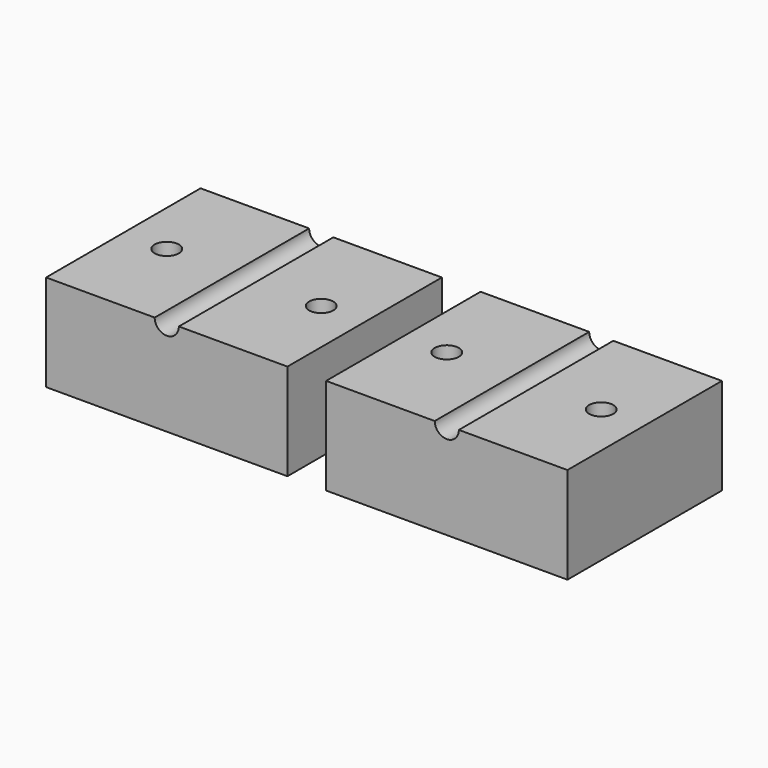
from build123d import *

# Parameters (mm, degrees)
F0_W     = 63.5
F0_H     = 50.8
F0_R     = 3.175
F1_DEPTH = 25.4
F2_R     = 3.175
F3_DEPTH = 50.801


with BuildPart() as f1:
    # F0 (on Top) → F1 (new body)
    with BuildSketch(Plane.XY):
        with Locations((-28.053731, 7.436336)):
            Rectangle(F0_W, F0_H)
        with Locations((-48.373731, 7.436336)):
            Circle(F0_R, mode=Mode.SUBTRACT)
        with Locations((-7.733731, 7.436336)):
            Circle(F0_R, mode=Mode.SUBTRACT)
        with Locations((45.621812, 7.436336)):
            Rectangle(F0_W, F0_H)
        with Locations((25.301812, 7.436336)):
            Circle(F0_R, mode=Mode.SUBTRACT)
        with Locations((65.941812, 7.436336)):
            Circle(F0_R, mode=Mode.SUBTRACT)
    extrude(amount=F1_DEPTH)

    # F2 (on face) → F3 (cut, through all)
    with BuildSketch(Plane.XZ.offset(17.963664)):
        with Locations((-28.053731, 25.4)):
            Circle(F2_R)
        with BuildLine():
            ThreePointArc((48.796812, 25.4), (45.621812, 28.575), (42.446812, 25.4))
            Line((42.446812, 25.4), (48.796812, 25.4))
        make_face()
        with BuildLine():
            Line((48.796812, 25.4), (42.446812, 25.4))
            ThreePointArc((42.446812, 25.4), (45.621812, 22.225), (48.796812, 25.4))
        make_face()
    extrude(amount=-F3_DEPTH, mode=Mode.SUBTRACT)


solid = f1.part
